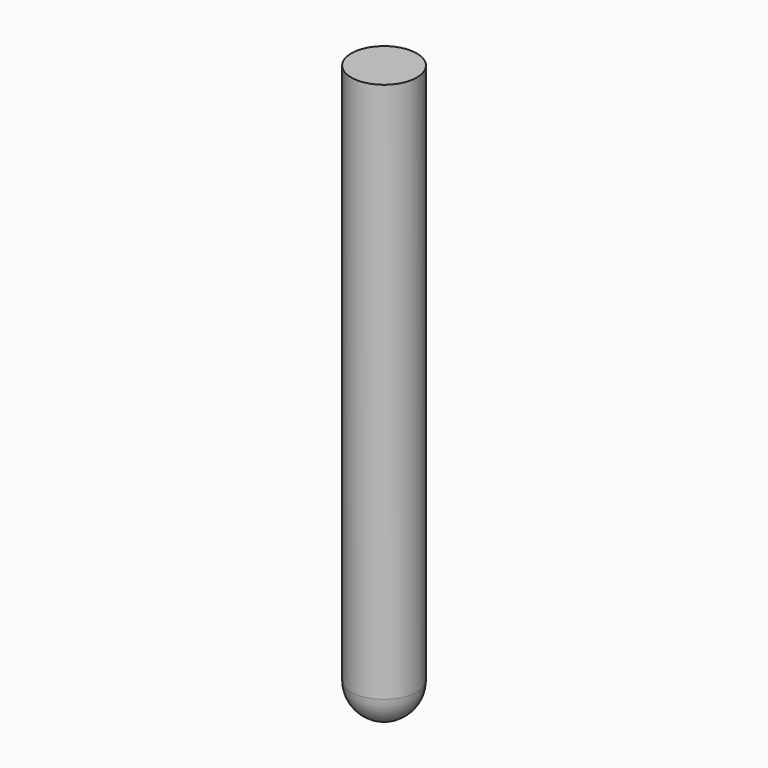
from build123d import *

# Parameters (mm, degrees)
F0_R     = 11.5
F1_DEPTH = 190


with BuildPart() as f1:
    # F0 (on Top) → F1 (new body)
    with BuildSketch(Plane.XY):
        Circle(F0_R)
    extrude(amount=F1_DEPTH)

    # F2 (on Front) → F3 (revolve)
    with BuildSketch(Plane.XZ):
        with BuildLine():
            ThreePointArc((0, -11.5), (8.131728, -8.131728), (11.5, 0))
            Line((11.5, 0), (0, 0))
            Line((0, 0), (0, -11.5))
        make_face()
    revolve(axis=Axis((0, 0, -5.75), (0, 0, -1)))


solid = f1.part
